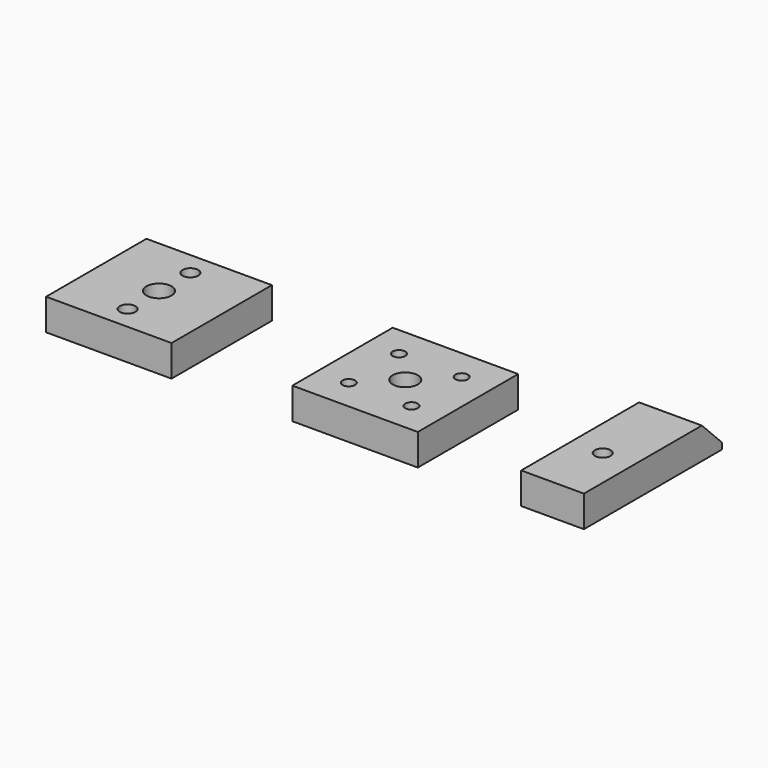
from build123d import *

# Parameters (mm, degrees)
F0_W             = 40
F0_H             = 40
F1_DEPTH         = 10
F0_W_2           = 20
F0_H_2           = 55
F2_D             = 8
F2_2_D           = 8
F3_D             = 4
F3_CBORE_D       = 7
F3_CBORE_DEPTH   = 4
F4_D             = 5
F4_CBORE_D       = 9
F4_CBORE_DEPTH   = 5
F4_2_D           = 5
F4_2_CBORE_D     = 9
F4_2_CBORE_DEPTH = 5
F5_SIZE          = 8


with BuildPart() as f1:
    # F0 (on Top) → F1 (new body)
    with BuildSketch(Plane.XY):
        with Locations((-80.9385883808, 4.4822967425)):
            Rectangle(F0_W, F0_H)
    extrude(amount=F1_DEPTH)

    # F2 (through all)
    with Locations(Plane(origin=(0, 0, 0), x_dir=(1, 0, 0), z_dir=(0, 0, -1))):
        with Locations((-3.1120874919, -5.346580064), (-80.9385883808, -4.4822967425)):
            Hole(F2_D / 2)

    # F4 (through all)
    with Locations(Plane(origin=(0, 0, 0), x_dir=(1, 0, 0), z_dir=(0, 0, -1))):
        with Locations((59.9464087188, -5.2287517861), (-80.9385883808, -16.9822967425), (-80.9385883808, 8.0177032575)):
            CounterBoreHole(F4_D / 2, F4_CBORE_D / 2, F4_CBORE_DEPTH)


with BuildPart() as f1b:
    # F0 (on Top) → F1, piece 2 (new body)
    with BuildSketch(Plane.XY):
        with Locations((-3.1120874919, 5.346580064)):
            Rectangle(F0_W, F0_H)
    extrude(amount=F1_DEPTH)

    # F2#2 (through all)
    with Locations(Plane(origin=(0, 0, 0), x_dir=(1, 0, 0), z_dir=(0, 0, -1))):
        with Locations((-3.1120874919, -5.346580064), (-80.9385883808, -4.4822967425)):
            Hole(F2_2_D / 2)

    # F3 (through all)
    with Locations(Plane(origin=(0, 0, 0), x_dir=(1, 0, 0), z_dir=(0, 0, -1))):
        with Locations((6.8879125081, -15.346580064), (-13.1120874919, -15.346580064), (-13.1120874919, 4.653419936), (6.8879125081, 4.653419936)):
            CounterBoreHole(F3_D / 2, F3_CBORE_D / 2, F3_CBORE_DEPTH)


with BuildPart() as f1c:
    # F0 (on Top) → F1, piece 3 (new body)
    with BuildSketch(Plane.XY):
        with Locations((59.9464087188, 12.7287517861)):
            Rectangle(F0_W_2, F0_H_2)
    extrude(amount=F1_DEPTH)

    # F4#2 (through all)
    with Locations(Plane(origin=(0, 0, 0), x_dir=(1, 0, 0), z_dir=(0, 0, -1))):
        with Locations((59.9464087188, -5.2287517861), (-80.9385883808, -16.9822967425), (-80.9385883808, 8.0177032575)):
            CounterBoreHole(F4_2_D / 2, F4_2_CBORE_D / 2, F4_2_CBORE_DEPTH)

    # F5
    f5_edges = [f1c.edges().sort_by_distance(p)[0] for p in [
        (59.946409, 40.228752, 10),
    ]]
    chamfer(f5_edges, length=F5_SIZE)


solid = Compound([f1.part, f1b.part, f1c.part])
